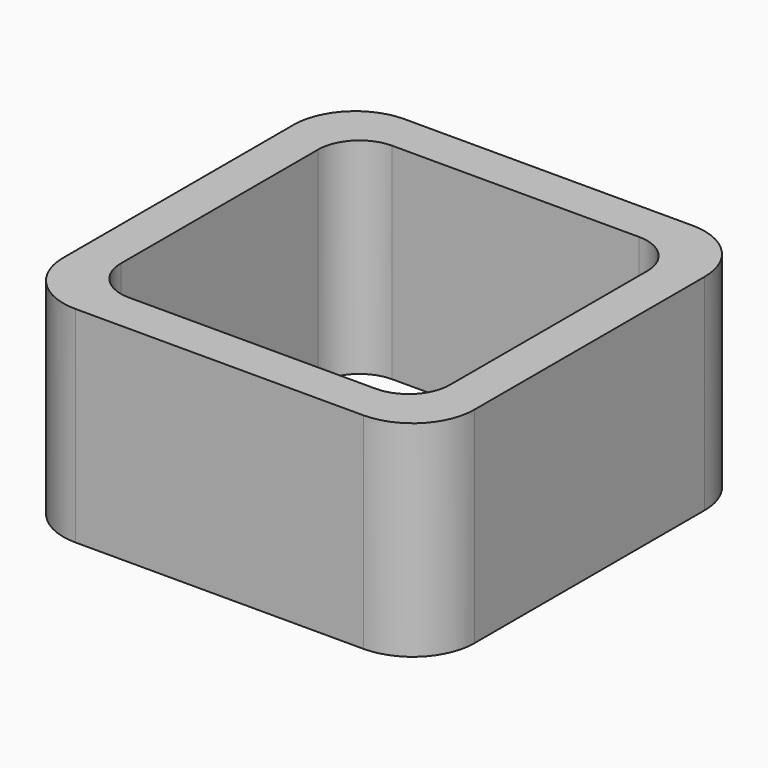
from build123d import *

# Parameters (mm, degrees)
EXTRUDE_DEPTH = 50


with BuildPart() as part:
    # Sketch → Extrude (new body)
    with BuildSketch(Plane.XY):
        with BuildLine():
            Line((-35, 50), (35, 50))
            ThreePointArc((50, 35), (45.606602, 45.606602), (35, 50))
            Line((50, 35), (50, -35))
            ThreePointArc((35, -50), (45.606602, -45.606602), (50, -35))
            Line((35, -50), (-35, -50))
            ThreePointArc((-50, -35), (-45.606602, -45.606602), (-35, -50))
            Line((-50, -35), (-50, 35))
            ThreePointArc((-35, 50), (-45.606602, 45.606602), (-50, 35))
        make_face()
        with BuildLine():
            Line((-30, 40), (30, 40))
            ThreePointArc((40, 30), (37.071068, 37.071068), (30, 40))
            Line((40, 30), (40, -30))
            ThreePointArc((30, -40), (37.071068, -37.071068), (40, -30))
            Line((30, -40), (-30, -40))
            ThreePointArc((-40, -30), (-37.071068, -37.071068), (-30, -40))
            Line((-40, -30), (-40, 30))
            ThreePointArc((-30, 40), (-37.071068, 37.071068), (-40, 30))
        make_face(mode=Mode.SUBTRACT)
    extrude(amount=EXTRUDE_DEPTH)


solid = part.part
